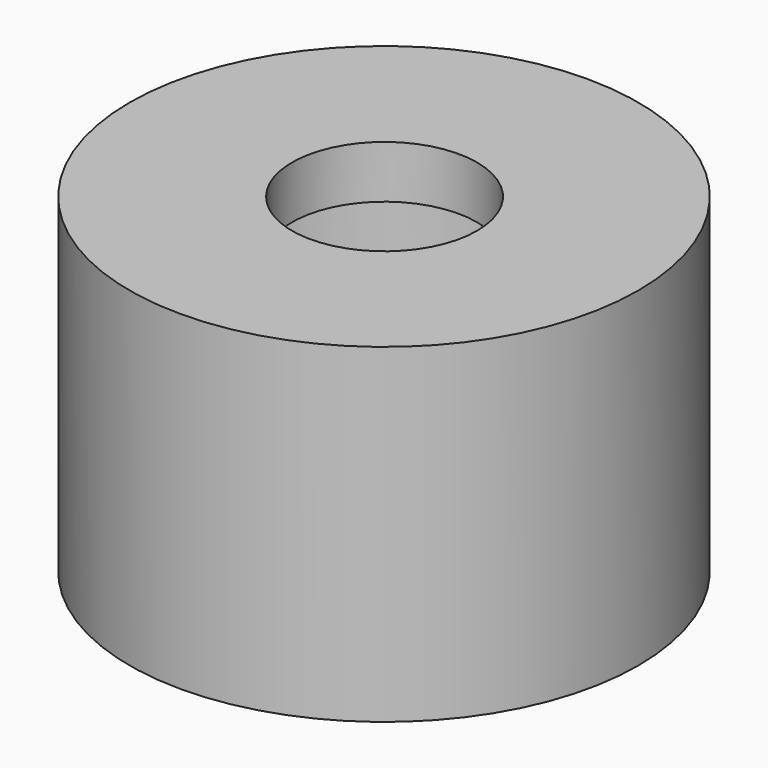
from build123d import *

# Parameters (mm, degrees)
SKETCH016_R     = 4.4
PAD004_DEPTH    = 5.71
SKETCH017_R     = 3.1
POCKET008_DEPTH = 5
SKETCH018_R     = 1.6
POCKET009_DEPTH = 7.2
CHAMFER004_SIZE = 0.5


with BuildPart() as part:
    # Sketch016 → Pad004 (new body)
    with BuildSketch(Plane.XY.offset(-7.2)):
        with Locations((-36.708672, -51.151615)):
            Circle(SKETCH016_R)
    extrude(amount=PAD004_DEPTH)

    # Sketch017 → Pocket008 (cut)
    with BuildSketch(Plane.XY.offset(-7.4)):
        with Locations((-36.718586, -51.151543)):
            Circle(SKETCH017_R)
    extrude(amount=POCKET008_DEPTH, mode=Mode.SUBTRACT)

    # Sketch018 → Pocket009 (cut)
    with BuildSketch(Plane.XY.offset(-7.2)):
        with Locations((-36.700569, -51.150215)):
            Circle(SKETCH018_R)
    extrude(amount=POCKET009_DEPTH, mode=Mode.SUBTRACT)

    # Chamfer004
    chamfer004_edges = [part.edges().sort_by_distance(p)[0] for p in [
        (-39.818586, -51.151543, -7.2),
    ]]
    chamfer(chamfer004_edges, length=CHAMFER004_SIZE)


solid = part.part
